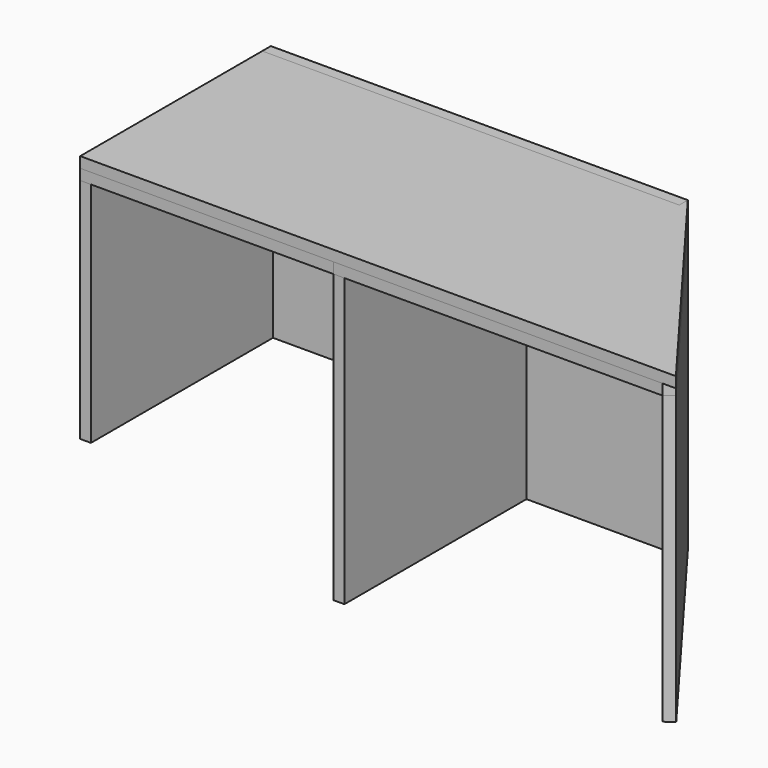
from build123d import *

# Parameters (mm, degrees)
F1_DEPTH = 18
F2_W     = 18
F2_H     = 400
F3_DEPTH = 500
F4_DEPTH = 400
F2_W_2   = 407.549614
F5_DEPTH = 18
F6_DEPTH = 18
F7_W     = 700
F7_H     = 18
F8_DEPTH = 18


with BuildPart() as f1:
    # F0 (on Top) → F1 (new body)
    with BuildSketch(Plane.XY):
        Polygon((-528.364236, 211.46901), (-528.364236, -188.53099), (471.635764, -188.53099), (171.635764, 211.46901), align=None)
    extrude(amount=F1_DEPTH)


with BuildPart() as f3:
    # F2 (on face) → F3 (new body)
    with BuildSketch(Plane(origin=(0, 0, 0), x_dir=(1, 0, 0), z_dir=(0, 0, -1))):
        with Locations((-93.814622, -11.46901)):
            Rectangle(F2_W, F2_H)
        Polygon((463.535764, 177.73099), (449.135764, 188.53099), (157.235764, -200.66901), (171.635764, -211.46901), align=None)
    extrude(amount=F3_DEPTH)


with BuildPart() as f4:
    # F2 (on face) → F4 (new body)
    with BuildSketch(Plane(origin=(0, 0, 0), x_dir=(1, 0, 0), z_dir=(0, 0, -1))):
        with Locations((-519.364236, -11.46901)):
            Rectangle(F2_W, F2_H)
    extrude(amount=F4_DEPTH)


with BuildPart() as f5:
    # F2 (on face) → F5 (new body)
    with BuildSketch(Plane(origin=(0, 0, 0), x_dir=(1, 0, 0), z_dir=(0, 0, -1))):
        with Locations((-519.364236, -11.46901)):
            Rectangle(F2_W, F2_H)
        with Locations((-306.589429, -11.46901)):
            Rectangle(F2_W_2, F2_H)
    extrude(amount=F5_DEPTH)


with BuildPart() as f6:
    # F2 (on face) → F6 (new body)
    with BuildSketch(Plane(origin=(0, 0, 0), x_dir=(1, 0, 0), z_dir=(0, 0, -1))):
        with Locations((-93.814622, -11.46901)):
            Rectangle(F2_W, F2_H)
        Polygon((449.135764, 188.53099), (-84.814622, 188.53099), (-84.814622, -211.46901), (171.635764, -211.46901), (157.235764, -200.66901), align=None)
        Polygon((463.535764, 177.73099), (449.135764, 188.53099), (157.235764, -200.66901), (171.635764, -211.46901), align=None)
    extrude(amount=F6_DEPTH)


with BuildPart() as f8:
    # F7 (on face) → F8 (new body)
    with BuildSketch(Plane(origin=(0, 211.46901, 0), x_dir=(-1, 0, 0), z_dir=(0, 1, 0))):
        Polygon((528.364236, -400), (528.364236, 0), (-171.635764, 0), (-171.635764, -500), (102.814622, -500), (102.814622, -400), align=None)
        with Locations((178.364236, 9)):
            Rectangle(F7_W, F7_H)
    extrude(amount=-F8_DEPTH)


with BuildPart() as f1_1:
    add(f1.part)

    # F9: cut F8
    add(f8.part, mode=Mode.SUBTRACT)


with BuildPart() as f3_1:
    add(f3.part)

    # F9: cut F8
    add(f8.part, mode=Mode.SUBTRACT)


with BuildPart() as f4_1:
    add(f4.part)

    # F9: cut F8
    add(f8.part, mode=Mode.SUBTRACT)


with BuildPart() as f5_1:
    add(f5.part)

    # F9: cut F8
    add(f8.part, mode=Mode.SUBTRACT)


with BuildPart() as f6_1:
    add(f6.part)

    # F9: cut F8
    add(f8.part, mode=Mode.SUBTRACT)


with BuildPart() as f3_2:
    add(f3_1.part)

    # F10: cut F5, F6
    add(f5_1.part, mode=Mode.SUBTRACT)
    add(f6_1.part, mode=Mode.SUBTRACT)


with BuildPart() as f4_2:
    add(f4_1.part)

    # F10: cut F5, F6
    add(f5_1.part, mode=Mode.SUBTRACT)
    add(f6_1.part, mode=Mode.SUBTRACT)


solid = Compound([f8.part, f1_1.part, f5_1.part, f6_1.part, f3_2.part, f4_2.part])
